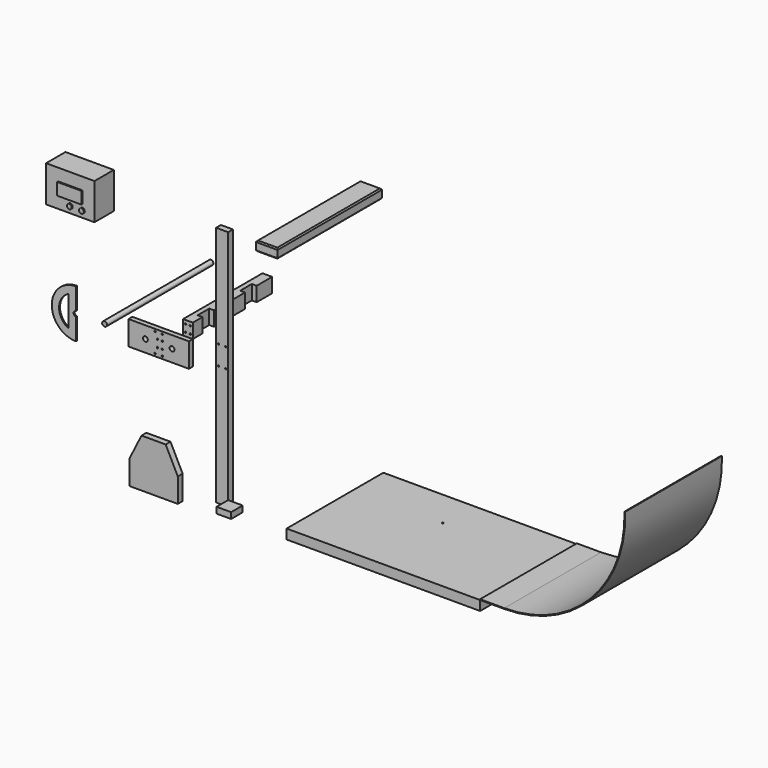
from build123d import *

# Parameters (mm, degrees)
F0_W      = 800
F0_H      = 500
F1_DEPTH  = 40
F2_W      = 50
F2_H      = 1000
F2_R      = 3
F3_DEPTH  = 25
F5_DEPTH  = 25
F6_W      = 250
F6_H      = 100
F6_R      = 3
F6_R_2    = 10
F7_DEPTH  = 20
F8_R      = 10
F9_DEPTH  = 550
F11_DEPTH = 60
F12_R     = 3
F13_DEPTH = 25
F14_W     = 60
F14_H     = 25
F15_DEPTH = 60
F16_R     = 3
F17_DEPTH = 25
F18_W     = 90
F18_H     = 540
F18_W_2   = 50
F18_H_2   = 25
F19_DEPTH = 20
F20_DEPTH = 20
F21_SIZE  = 5
F23_DEPTH = 5
F24_W     = 200
F24_H     = 150
F24_R     = 10
F24_W_2   = 100
F24_H_2   = 50
F25_DEPTH = 100
F26_DEPTH = 5
F28_DEPTH = 500


with BuildPart() as f1:
    # F0 (on Top) → F1 (new body)
    with BuildSketch(Plane.XY):
        Rectangle(F0_W, F0_H)
    extrude(amount=F1_DEPTH)

    # F16 (on face) → F17 (cut)
    with BuildSketch(Plane.XY.offset(40)):
        with Locations((-30, 95)):
            Circle(F16_R)
    extrude(amount=-F17_DEPTH, mode=Mode.SUBTRACT)


with BuildPart() as f3:
    # F2 (on face) → F3 (new body)
    with BuildSketch(Plane.XZ.offset(250)):
        with Locations((-666.487074, 540)):
            Rectangle(F2_W, F2_H)
        with Locations((-681.487074, 540)):
            Circle(F2_R, mode=Mode.SUBTRACT)
        with Locations((-651.487074, 540)):
            Circle(F2_R, mode=Mode.SUBTRACT)
        with Locations((-681.487074, 620)):
            Circle(F2_R, mode=Mode.SUBTRACT)
        with Locations((-651.487074, 620)):
            Circle(F2_R, mode=Mode.SUBTRACT)
    extrude(amount=-F3_DEPTH)


with BuildPart() as f5:
    # F4 (on face) → F5 (new body)
    with BuildSketch(Plane.XZ.offset(250)):
        Polygon((-1029.898405, 0), (-829.898405, 0), (-829.898405, 100), (-879.898405, 200), (-979.898405, 200), (-1029.898405, 100), align=None)
    extrude(amount=F5_DEPTH)


with BuildPart() as f7:
    # F6 (on face) → F7 (new body)
    with BuildSketch(Plane.XZ.offset(250)):
        with Locations((-928.840339, 540)):
            Rectangle(F6_W, F6_H)
        with Locations((-943.840339, 500)):
            Circle(F6_R, mode=Mode.SUBTRACT)
        with Locations((-933.840339, 525)):
            Circle(F6_R, mode=Mode.SUBTRACT)
        with Locations((-913.840339, 500)):
            Circle(F6_R, mode=Mode.SUBTRACT)
        with Locations((-913.840339, 525)):
            Circle(F6_R, mode=Mode.SUBTRACT)
        with Locations((-983.840339, 540)):
            Circle(F6_R_2, mode=Mode.SUBTRACT)
        with Locations((-933.840339, 555)):
            Circle(F6_R, mode=Mode.SUBTRACT)
        with Locations((-943.840339, 580)):
            Circle(F6_R, mode=Mode.SUBTRACT)
        with Locations((-913.840339, 555)):
            Circle(F6_R, mode=Mode.SUBTRACT)
        with Locations((-913.840339, 580)):
            Circle(F6_R, mode=Mode.SUBTRACT)
        with Locations((-873.840339, 540)):
            Circle(F6_R_2, mode=Mode.SUBTRACT)
    extrude(amount=-F7_DEPTH)

    # F10 (on face) → F11 (join)
    with BuildSketch(Plane.XY.offset(590)):
        Polygon((-843.840339, -230), (-803.840339, -230), (-803.840339, -180), (-823.840339, -180), (-823.840339, -120), (-803.840339, -120), (-803.840339, 40), (-823.840339, 40), (-823.840339, 100), (-803.840339, 100), (-803.840339, 180), (-843.840339, 180), align=None)
    extrude(amount=F11_DEPTH)

    # F12 (on face) → F13 (cut)
    with BuildSketch(Plane.XZ.offset(230)):
        with Locations((-833.840339, 635)):
            Circle(F12_R)
        with Locations((-813.840339, 635)):
            Circle(F12_R)
        with Locations((-833.840339, 605)):
            Circle(F12_R)
        with Locations((-813.840339, 605)):
            Circle(F12_R)
    extrude(amount=-F13_DEPTH, mode=Mode.SUBTRACT)


with BuildPart() as f9:
    # F8 (on face) → F9 (new body)
    with BuildSketch(Plane.XZ.offset(250)):
        with Locations((-1152.550554, 540)):
            Circle(F8_R)
    extrude(amount=-F9_DEPTH)


with BuildPart() as f15:
    # F14 (on face) → F15 (new body)
    with BuildSketch(Plane.XZ.offset(250)):
        with Locations((-611.487074, 52.5)):
            Rectangle(F14_W, F14_H)
    extrude(amount=F15_DEPTH)


with BuildPart() as f19:
    # F18 (on face) → F19 (new body)
    with BuildSketch(Plane.XY.offset(1040)):
        with Locations((-466.354446, 0)):
            Rectangle(F18_W, F18_H)
        with Locations((-466.354446, -237.5)):
            Rectangle(F18_W_2, F18_H_2, mode=Mode.SUBTRACT)
        with Locations((-466.354446, 237.5)):
            Rectangle(F18_W_2, F18_H_2, mode=Mode.SUBTRACT)
    extrude(amount=-F19_DEPTH)

    # F18 (on face) → F20 (join)
    with BuildSketch(Plane.XY.offset(1040)):
        with Locations((-466.354446, 0)):
            Rectangle(F18_W, F18_H)
        with Locations((-466.354446, -237.5)):
            Rectangle(F18_W_2, F18_H_2, mode=Mode.SUBTRACT)
        with Locations((-466.354446, 237.5)):
            Rectangle(F18_W_2, F18_H_2, mode=Mode.SUBTRACT)
        with Locations((-466.354446, 237.5)):
            Rectangle(F18_W_2, F18_H_2)
        with Locations((-466.354446, -237.5)):
            Rectangle(F18_W_2, F18_H_2)
    extrude(amount=F20_DEPTH)

    # F21
    f21_edges = [f19.edges().sort_by_distance(p)[0] for p in [
        (-511.354446, 0, 1060),
        (-466.354446, 270, 1060),
        (-421.354446, 0, 1060),
        (-466.354446, -270, 1060),
        (-466.354446, -270, 1020),
        (-511.354446, 0, 1020),
        (-421.354446, 0, 1020),
        (-466.354446, 270, 1020),
    ]]
    chamfer(f21_edges, length=F21_SIZE)


with BuildPart() as f23:
    # F22 (on face) → F23 (new body)
    with BuildSketch(Plane.XZ.offset(250)):
        with BuildLine():
            Line((-1266.807437, 551.591917), (-1266.807437, 641.591917))
            ThreePointArc((-1266.807437, 641.591917), (-1366.807437, 541.591917), (-1266.807437, 441.591917))
            Line((-1266.807437, 441.591917), (-1266.807437, 531.591917))
            ThreePointArc((-1266.807437, 531.591917), (-1276.807437, 541.591917), (-1266.807437, 551.591917))
        make_face()
        with BuildLine():
            ThreePointArc((-1296.807437, 478.346364), (-1336.807437, 541.591917), (-1296.807437, 604.83747))
            Line((-1296.807437, 604.83747), (-1296.807437, 478.346364))
        make_face(mode=Mode.SUBTRACT)
    extrude(amount=F23_DEPTH)


with BuildPart() as f25:
    # F24 (on face) → F25 (new body)
    with BuildSketch(Plane.XZ.offset(250)):
        with Locations((-1294.384146, 971.368384)):
            Rectangle(F24_W, F24_H)
        with Locations((-1294.384146, 923.115909)):
            Circle(F24_R, mode=Mode.SUBTRACT)
        with Locations((-1244.384146, 923.115909)):
            Circle(F24_R, mode=Mode.SUBTRACT)
        with Locations((-1294.384146, 971.368384)):
            Rectangle(F24_W_2, F24_H_2, mode=Mode.SUBTRACT)
        with Locations((-1294.384146, 971.368384)):
            Rectangle(F24_W, F24_H)
        with Locations((-1294.384146, 923.115909)):
            Circle(F24_R, mode=Mode.SUBTRACT)
        with Locations((-1294.384146, 971.368384)):
            Rectangle(F24_W_2, F24_H_2, mode=Mode.SUBTRACT)
        with Locations((-1244.384146, 923.115909)):
            Circle(F24_R, mode=Mode.SUBTRACT)
        with Locations((-1294.384146, 971.368384)):
            Rectangle(F24_W_2, F24_H_2)
        with Locations((-1244.384146, 923.115909)):
            Circle(F24_R)
        with Locations((-1294.384146, 923.115909)):
            Circle(F24_R)
    extrude(amount=-F25_DEPTH)

    # F24 (on face) → F26 (join)
    with BuildSketch(Plane.XZ.offset(250)):
        with Locations((-1294.384146, 971.368384)):
            Rectangle(F24_W_2, F24_H_2)
        with Locations((-1294.384146, 923.115909)):
            Circle(F24_R)
        with Locations((-1244.384146, 923.115909)):
            Circle(F24_R)
    extrude(amount=F26_DEPTH)


with BuildPart() as f28:
    # F27 (on face) → F28 (new body)
    with BuildSketch(Plane.XZ.offset(250)):
        with BuildLine():
            Line((400, 43), (400, 40))
            Line((400, 40), (500, 40))
            ThreePointArc((500, 40), (859.170251, 192.154156), (999.743516, 556.013076))
            Line((999.743516, 556.013076), (996.745055, 555.916998))
            ThreePointArc((996.745055, 555.916998), (857.015229, 194.241231), (500, 43))
            Line((500, 43), (400, 43))
        make_face()
    extrude(amount=-F28_DEPTH)


solid = Compound([f1.part, f3.part, f5.part, f7.part, f9.part, f15.part, f19.part, f23.part, f25.part, f28.part])
